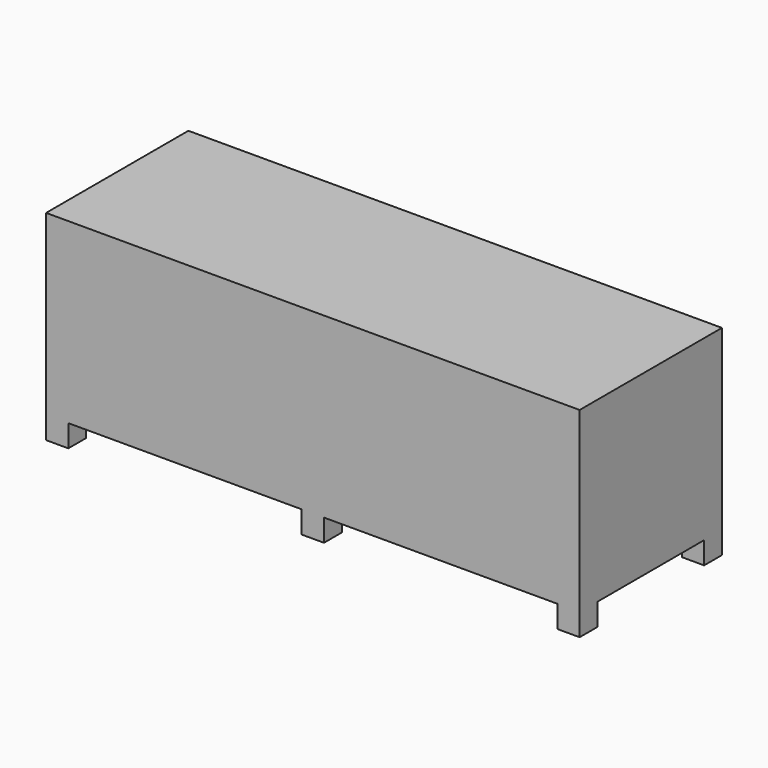
from build123d import *

# Parameters (mm, degrees)
F0_W     = 2438.4
F0_H     = 812.8
F1_DEPTH = 914.4
F3_DEPTH = 101.6


with BuildPart() as f1:
    # F0 (on Top) → F1 (new body)
    with BuildSketch(Plane.XY):
        with Locations((32.851815, 35.494878)):
            Rectangle(F0_W, F0_H)
    extrude(amount=F1_DEPTH)

    # F2 (on face) → F3 (cut)
    with BuildSketch(Plane(origin=(0, 0, 0), x_dir=(1, 0, 0), z_dir=(0, 0, -1))):
        Polygon((-1084.748185, 269.305122), (-1186.348185, 269.305122), (-1186.348185, -340.294878), (-1084.748185, -340.294878), (-1084.748185, -441.894878), (-17.948185, -441.894878), (-17.948185, -340.294878), (83.651815, -340.294878), (83.651815, -441.894878), (1150.451815, -441.894878), (1150.451815, -340.294878), (1252.051815, -340.294878), (1252.051815, 269.305122), (1150.451815, 269.305122), (1150.451815, 370.905122), (83.651815, 370.905122), (83.651815, 269.305122), (-17.948185, 269.305122), (-17.948185, 370.905122), (-1084.748185, 370.905122), align=None)
    extrude(amount=-F3_DEPTH, mode=Mode.SUBTRACT)


solid = f1.part
